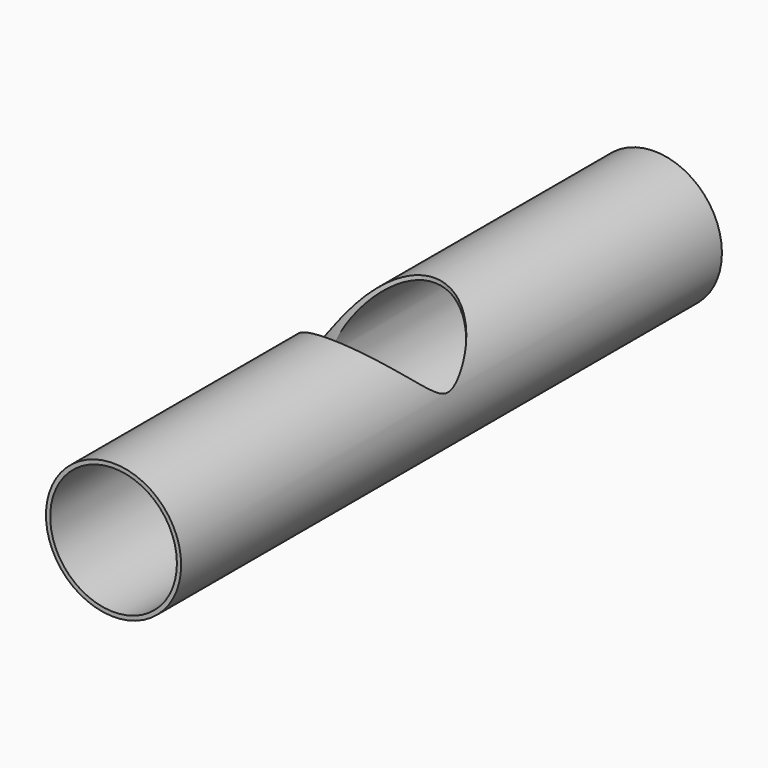
from build123d import *

# Parameters (mm, degrees)
F0_R   = 4
F0_R_2 = 3.75
F3_R   = 3.9


with BuildPart() as f2:
    # F2: sweep along a path in F1
    with BuildLine(Plane.XY) as f2_path:
        Line((0, 0), (0, 40))
    # F0 (on Front) → F2 (sweep)
    with BuildSketch(Plane.XZ):
        Circle(F0_R)
        Circle(F0_R_2, mode=Mode.SUBTRACT)
    sweep(path=f2_path.line)

    # F5: sweep along a path in F4
    with BuildLine(Plane.YZ) as f5_path:
        Line((21.1965255439, 0), (21.1965255439, 30))
    # F3 (on Top) → F5 (sweep, cut)
    with BuildSketch(Plane.XY):
        with Locations((0, 19.8551610578)):
            Circle(F3_R)
    sweep(path=f5_path.line, mode=Mode.SUBTRACT)


solid = f2.part
